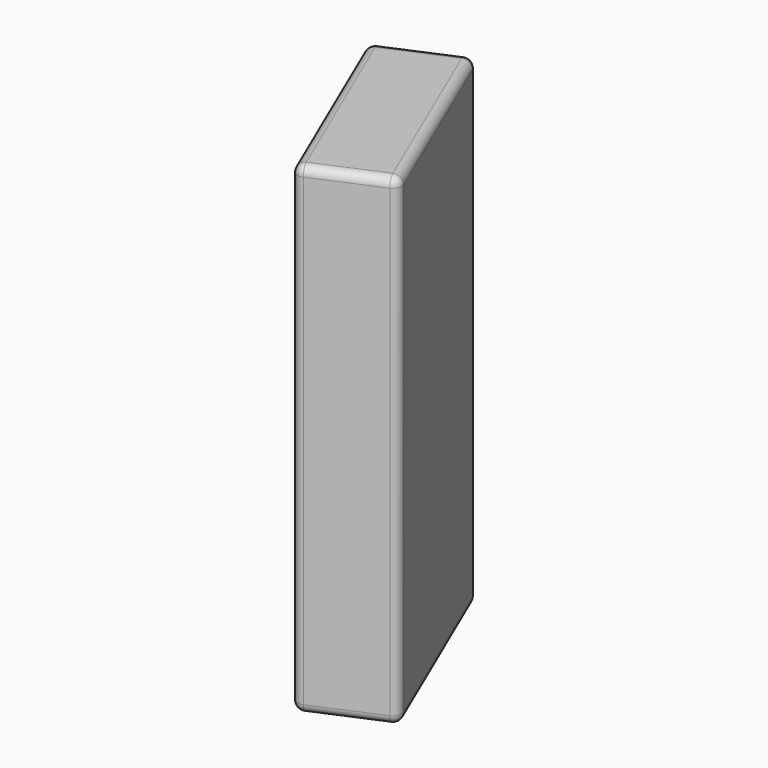
from build123d import *

# Parameters (mm, degrees)
F2_DEPTH = 5.5
F4_R     = 0.2


with BuildPart() as f2:
    # F1 (on Top) → F2 (new body)
    with BuildSketch(Plane.XY):
        Polygon((24.6480524192, 21.7062796455), (22.8097623591, 20.9184410483), (24.779358852, 16.3227158982), (26.617648912, 17.1105544954), align=None)
    extrude(amount=F2_DEPTH)

    # F3: F2 across plane


with BuildPart() as f2_1:
    add(f2.part)
    add(f2.part.mirror(Plane.XY))

    # F4
    f4_edges = [f2_1.edges().sort_by_distance(p)[0] for p in [
        (25.698504, 16.716635, 5.5),
        (26.617649, 17.110554, 0),
        (25.698504, 16.716635, -5.5),
        (24.779359, 16.322716, 0),
        (23.794561, 18.620578, 5.5),
        (25.632851, 19.408417, 5.5),
        (23.728907, 21.31236, 5.5),
        (24.648052, 21.70628, 0),
        (22.809762, 20.918441, 0),
        (23.728907, 21.31236, -5.5),
        (23.794561, 18.620578, -5.5),
        (25.632851, 19.408417, -5.5),
    ]]
    fillet(f4_edges, radius=F4_R)


solid = f2_1.part
